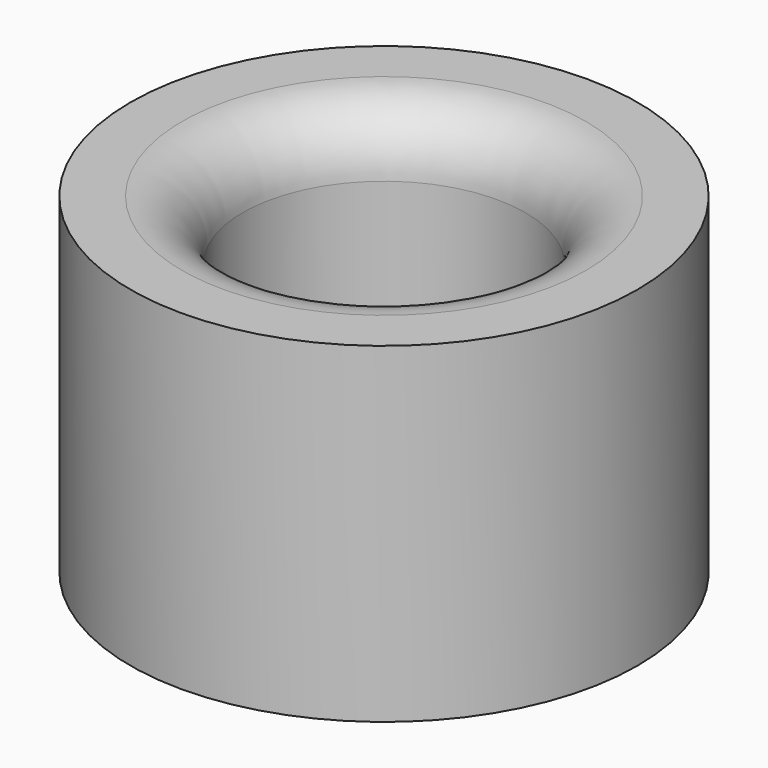
from build123d import *

# Parameters (mm, degrees)
CYLINDER012_R     = 3.14
CYLINDER012_DEPTH = 4.1
CYLINDER013_R     = 1.75
CYLINDER013_DEPTH = 14
FILLET005_R       = 0.75


with BuildPart() as part:
    # Cylinder012 → Cylinder012 (join)
    with BuildSketch(Plane.XY.offset(12)):
        Circle(CYLINDER012_R)
    extrude(amount=CYLINDER012_DEPTH)

    # Cylinder013 → Cylinder013 (cut)
    with BuildSketch(Plane.XY.offset(3)):
        Circle(CYLINDER013_R)
    extrude(amount=CYLINDER013_DEPTH, mode=Mode.SUBTRACT)

    # Fillet005
    fillet005_edges = [part.edges().sort_by_distance(p)[0] for p in [
        (-1.75, 0, 16.1),
    ]]
    fillet(fillet005_edges, radius=FILLET005_R)


solid = part.part
